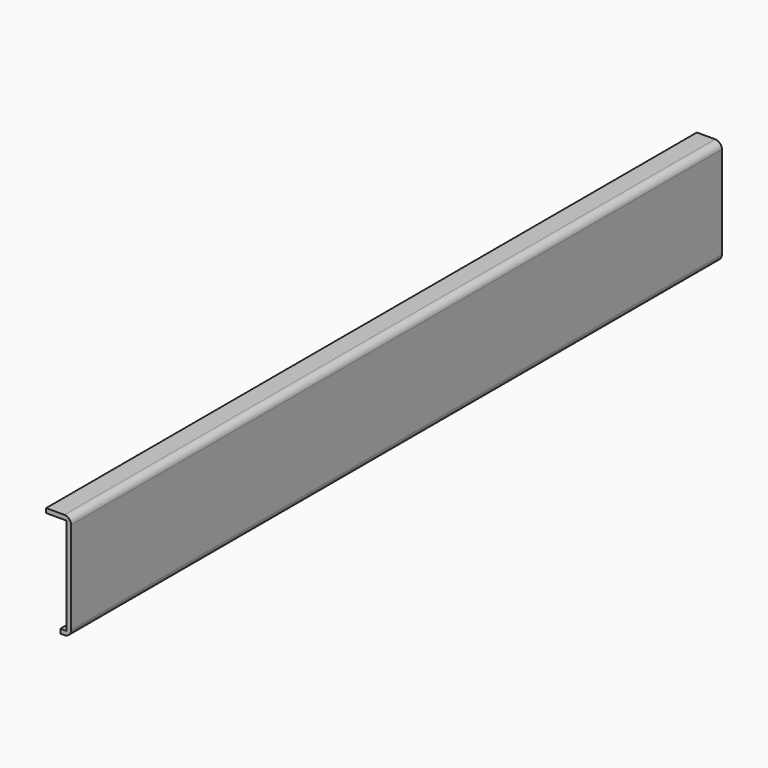
from build123d import *

# Parameters (mm, degrees)
F0_W     = 3.556
F0_H     = 3.302
F0_W_2   = 4.572
F0_H_2   = 72.771
F0_W_3   = 15.24
F1_DEPTH = 609.6
F2_R     = 5.08


with BuildPart() as f1:
    # F0 (on Front) → F1 (new body)
    with BuildSketch(Plane.XZ):
        with Locations((-1.778, 1.651)):
            Rectangle(F0_W, F0_H)
        with Locations((-5.842, 1.651)):
            Rectangle(F0_W_2, F0_H)
        with Locations((-1.778, 39.6875)):
            Rectangle(F0_W, F0_H_2)
        with Locations((-1.778, 77.724)):
            Rectangle(F0_W, F0_H)
        with Locations((-11.176, 77.724)):
            Rectangle(F0_W_3, F0_H)
    extrude(amount=F1_DEPTH)

    # F2
    f2_edges = [f1.edges().sort_by_distance(p)[0] for p in [
        (0, -304.8, 79.375),
        (0, -304.8, 0),
    ]]
    fillet(f2_edges, radius=F2_R)


solid = f1.part
